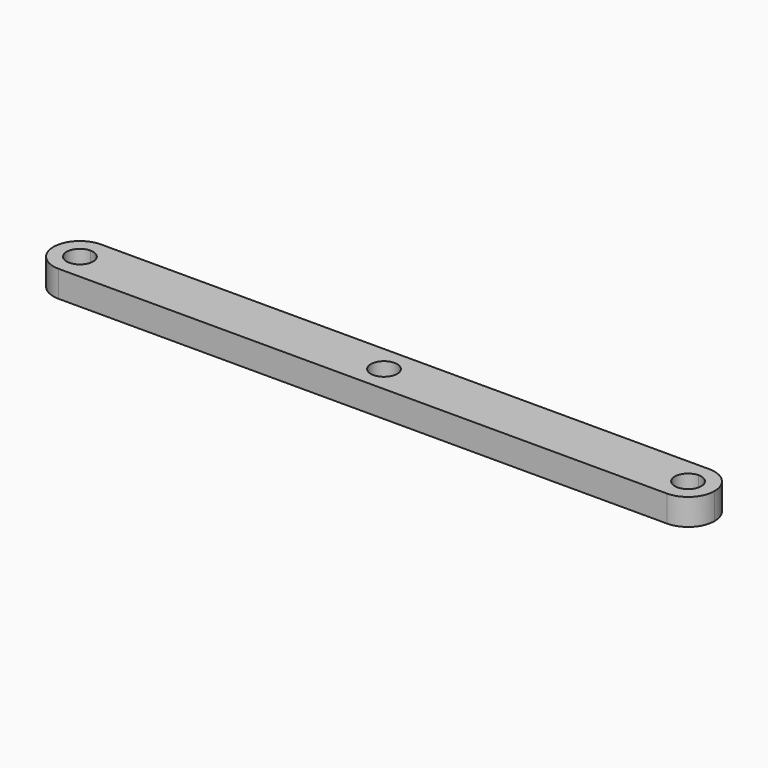
from build123d import *

# Parameters (mm, degrees)
F0_R     = 2.5
F1_DEPTH = 5


with BuildPart() as f1:
    # F0 (on Top) → F1 (new body)
    with BuildSketch(Plane.XY):
        with BuildLine():
            Line((-57.5, -5), (57.5, -5))
            ThreePointArc((57.5, -5), (52.5, 0), (57.5, 5))
            Line((57.5, 5), (-57.5, 5))
            ThreePointArc((-57.5, 5), (-53.964466, 3.535534), (-52.5, 0))
            ThreePointArc((-52.5, 0), (-53.964466, -3.535534), (-57.5, -5))
        make_face()
        Circle(F0_R, mode=Mode.SUBTRACT)
        with BuildLine():
            ThreePointArc((-57.5, 5), (-62.5, 0), (-57.5, -5))
            Line((-57.5, -5), (-57.5, -2.5))
            ThreePointArc((-57.5, -2.5), (-60, 0), (-57.5, 2.5))
            Line((-57.5, 2.5), (-57.5, 5))
        make_face()
        with BuildLine():
            ThreePointArc((57.5, 5), (52.5, 0), (57.5, -5))
            Line((57.5, -5), (57.5, -2.5))
            ThreePointArc((57.5, -2.5), (55, 0), (57.5, 2.5))
            Line((57.5, 2.5), (57.5, 5))
        make_face()
        with BuildLine():
            Line((57.5, -2.5), (57.5, -5))
            ThreePointArc((57.5, -5), (61.035534, -3.535534), (62.5, 0))
            ThreePointArc((62.5, 0), (61.035534, 3.535534), (57.5, 5))
            Line((57.5, 5), (57.5, 2.5))
            ThreePointArc((57.5, 2.5), (59.267767, 1.767767), (60, 0))
            ThreePointArc((60, 0), (59.267767, -1.767767), (57.5, -2.5))
        make_face()
        with BuildLine():
            Line((-57.5, -2.5), (-57.5, -5))
            ThreePointArc((-57.5, -5), (-53.964466, -3.535534), (-52.5, 0))
            ThreePointArc((-52.5, 0), (-53.964466, 3.535534), (-57.5, 5))
            Line((-57.5, 5), (-57.5, 2.5))
            ThreePointArc((-57.5, 2.5), (-55.732233, 1.767767), (-55, 0))
            ThreePointArc((-55, 0), (-55.732233, -1.767767), (-57.5, -2.5))
        make_face()
    extrude(amount=F1_DEPTH)


solid = f1.part
